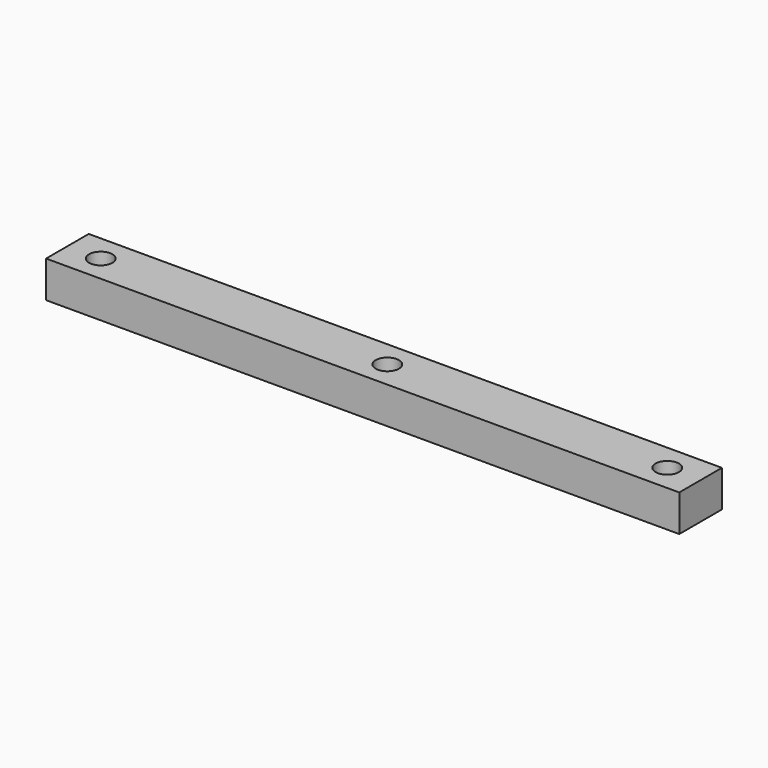
from build123d import *

# Parameters (mm, degrees)
SKETCH001_W  = 95
SKETCH001_H  = 8
PAD_DEPTH    = 5.5
SKETCH_R     = 1.75
POCKET_DEPTH = 8


with BuildPart() as part:
    # Sketch001 → Pad (new body)
    with BuildSketch(Plane.XY):
        with Locations((47.5, 4)):
            Rectangle(SKETCH001_W, SKETCH001_H)
    extrude(amount=PAD_DEPTH)

    # Sketch (on Face6 of Pad) → Pocket (cut)
    with BuildSketch(Plane.XY.offset(5.5)):
        with Locations((5, 4)):
            Circle(SKETCH_R)
        with Locations((48, 4)):
            Circle(SKETCH_R)
        with Locations((90, 4)):
            Circle(SKETCH_R)
    extrude(amount=-POCKET_DEPTH, mode=Mode.SUBTRACT)


solid = part.part
